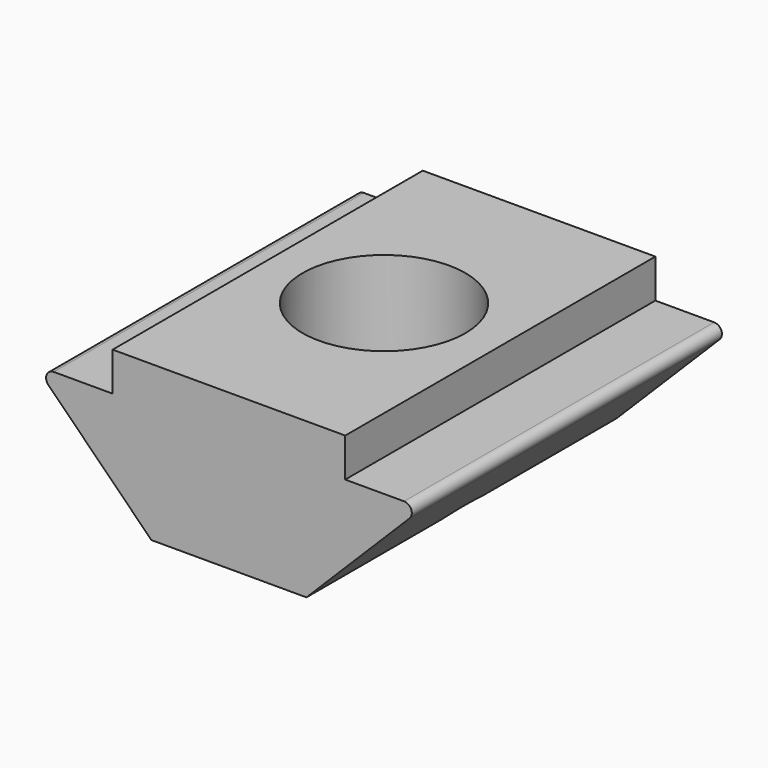
from build123d import *

# Parameters (mm, degrees)
PAD029_DEPTH  = 5
SKETCH080_R   = 2.1
HOLE017_DEPTH = 4.001
FILLET006_R   = 0.2


with BuildPart() as part:
    # Sketch081 → Pad029 (new body, symmetric)
    with BuildSketch(Plane.XZ):
        Polygon((-3, -1), (-3, 0), (3, 0), (3, -1), (5, -1), (2, -4), (-2, -4), (-5, -1), align=None)
    extrude(amount=PAD029_DEPTH, both=True)

    # Sketch080 → Hole017 (cut, through all)
    with BuildSketch(Plane.XY):
        Circle(SKETCH080_R)
    extrude(amount=-HOLE017_DEPTH, mode=Mode.SUBTRACT)

    # Fillet006
    fillet006_edges = [part.edges().sort_by_distance(p)[0] for p in [
        (-5, 0, -1),
        (5, 0, -1),
    ]]
    fillet(fillet006_edges, radius=FILLET006_R)


with BuildPart() as part_1:
    # Body031 placement: moved
    add(part.part.moved(Location((-9.95, 9.9, -0.85))))


solid = part_1.part
